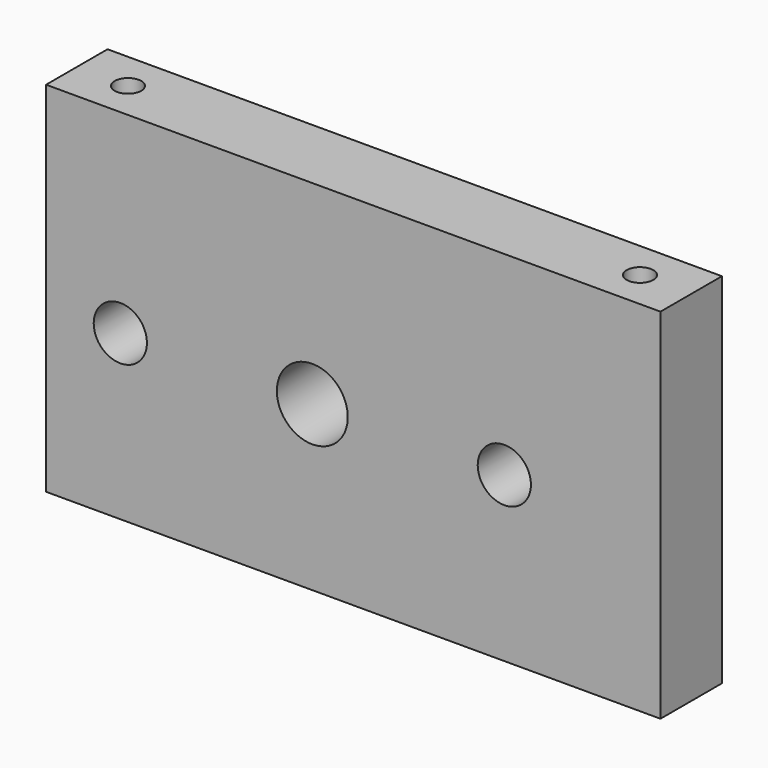
from build123d import *

# Parameters (mm, degrees)
F0_W     = 76.2
F0_H     = 44.45
F1_DEPTH = 4.7625
F3_D     = 3.3
F3_DEPTH = 12
F3_TIP   = 0.9914200214
F5_D     = 6.6
F5_DEPTH = 12.7
F5_TIP   = 1.9828400428
F7_D     = 8.8


with BuildPart() as f1:
    # F0 (on Front) → F1 (new body, symmetric)
    with BuildSketch(Plane.XZ):
        Rectangle(F0_W, F0_H)
    extrude(amount=F1_DEPTH, both=True)

    # F3
    with Locations(Plane.XY.offset(22.225)):
        with Locations((-31.75, 0), (31.75, 0)):
            Hole(F3_D / 2, depth=F3_DEPTH)
            with Locations((0, 0, -(F3_DEPTH + F3_TIP / 2))):  # 118° drill point
                Cone(0, F3_D / 2, F3_TIP, mode=Mode.SUBTRACT)

    # F5
    with Locations(Plane.XZ.offset(4.7625)):
        with Locations((-28.8925, -1.905), (18.7325, -1.905)):
            Hole(F5_D / 2, depth=F5_DEPTH)
            with Locations((0, 0, -(F5_DEPTH + F5_TIP / 2))):  # 118° drill point
                Cone(0, F5_D / 2, F5_TIP, mode=Mode.SUBTRACT)

    # F7 (through all)
    with Locations(Plane.XZ.offset(4.7625)):
        with Locations((-5.08, -1.905)):
            Hole(F7_D / 2)


solid = f1.part
